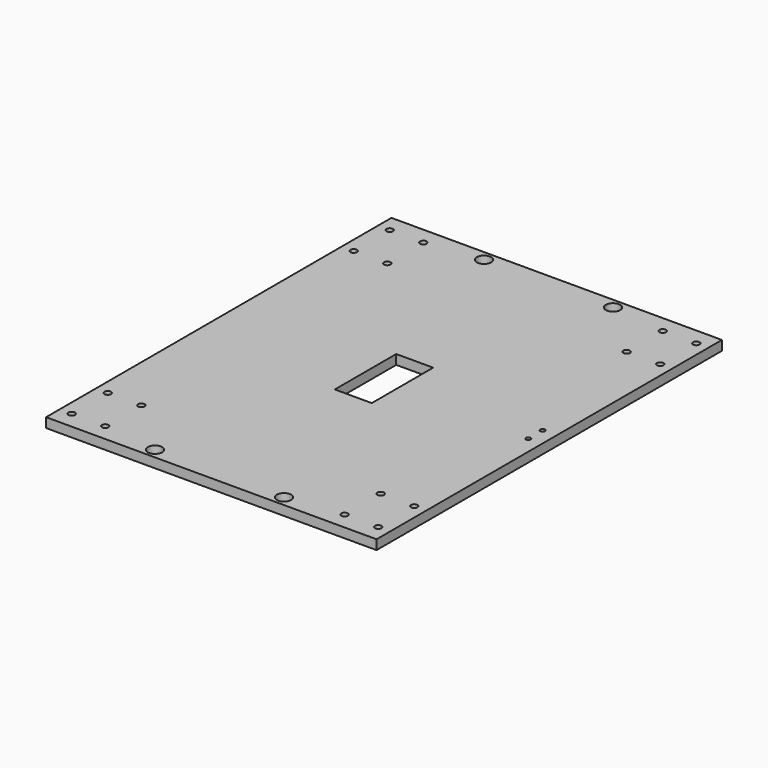
from build123d import *

# Parameters (mm, degrees)
F0_W     = 175.01715
F0_H     = 228.6
F0_R     = 1.7272
F0_R_2   = 3.81
F0_R_3   = 1.25
F0_W_2   = 19.558
F0_H_2   = 40.64
F1_DEPTH = 5.08


with BuildPart() as f1:
    # F0 (on Top) → F1 (new body)
    with BuildSketch(Plane.XY):
        Rectangle(F0_W, F0_H)
        with Locations((-81.158575, -105.283)):
            Circle(F0_R, mode=Mode.SUBTRACT)
        with Locations((-63.378575, -105.283)):
            Circle(F0_R, mode=Mode.SUBTRACT)
        with Locations((-81.158575, -81.407)):
            Circle(F0_R, mode=Mode.SUBTRACT)
        with Locations((-63.378575, -81.407)):
            Circle(F0_R, mode=Mode.SUBTRACT)
        with Locations((-34.168575, -108.9025)):
            Circle(F0_R_2, mode=Mode.SUBTRACT)
        with Locations((34.168575, -108.9025)):
            Circle(F0_R_2, mode=Mode.SUBTRACT)
        with Locations((63.378575, -105.283)):
            Circle(F0_R, mode=Mode.SUBTRACT)
        with Locations((81.158575, -105.283)):
            Circle(F0_R, mode=Mode.SUBTRACT)
        with Locations((63.378575, -81.407)):
            Circle(F0_R, mode=Mode.SUBTRACT)
        with Locations((81.158575, -81.407)):
            Circle(F0_R, mode=Mode.SUBTRACT)
        with Locations((80.208564, -4.750003)):
            Circle(F0_R_3, mode=Mode.SUBTRACT)
        with Locations((-81.158575, 81.407)):
            Circle(F0_R, mode=Mode.SUBTRACT)
        with Locations((-63.378575, 81.407)):
            Circle(F0_R, mode=Mode.SUBTRACT)
        with Locations((-81.158575, 105.283)):
            Circle(F0_R, mode=Mode.SUBTRACT)
        with Locations((-63.378575, 105.283)):
            Circle(F0_R, mode=Mode.SUBTRACT)
        with Locations((-34.168575, 108.9025)):
            Circle(F0_R_2, mode=Mode.SUBTRACT)
        Rectangle(F0_W_2, F0_H_2, mode=Mode.SUBTRACT)
        with Locations((80.208564, 4.750003)):
            Circle(F0_R_3, mode=Mode.SUBTRACT)
        with Locations((34.168575, 108.9025)):
            Circle(F0_R_2, mode=Mode.SUBTRACT)
        with Locations((63.378575, 81.407)):
            Circle(F0_R, mode=Mode.SUBTRACT)
        with Locations((81.158575, 81.407)):
            Circle(F0_R, mode=Mode.SUBTRACT)
        with Locations((63.378575, 105.283)):
            Circle(F0_R, mode=Mode.SUBTRACT)
        with Locations((81.158575, 105.283)):
            Circle(F0_R, mode=Mode.SUBTRACT)
    extrude(amount=F1_DEPTH)


solid = f1.part
